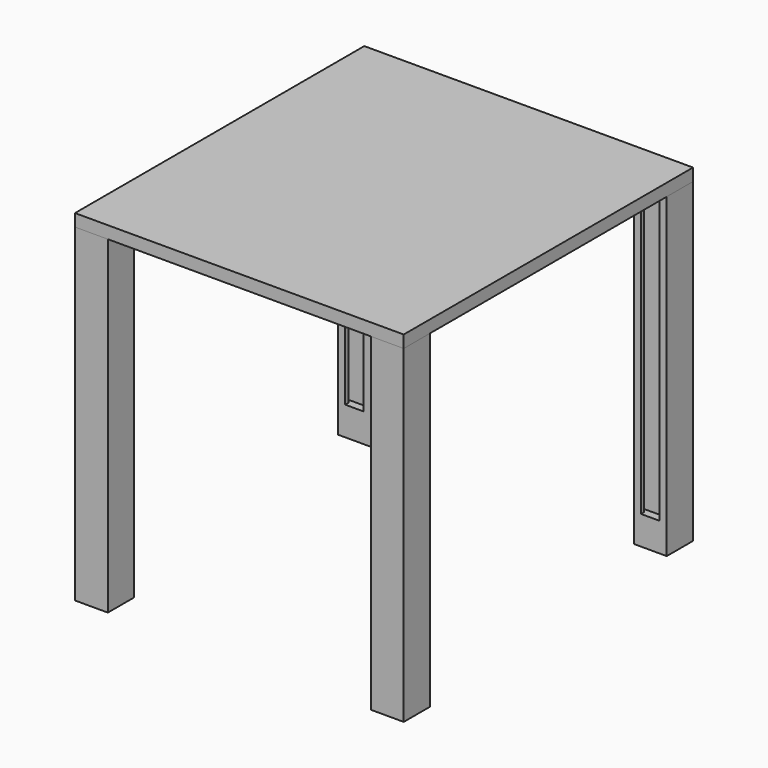
from build123d import *

# Parameters (mm, degrees)
F0_W      = 50.8
F0_H      = 488.95
F1_DEPTH  = 50.8
F3_DEPTH  = 444.5
F5_DEPTH  = 444.5
F6_DEPTH  = 558.8
F8_START  = -19.05
F8_DEPTH  = 508
F9_START  = -19.05
F9_DEPTH  = 425.45
F10_START = -19.05
F10_DEPTH = 425.45


with BuildPart() as f1:
    # F0 (on Front) → F1 (new body)
    with BuildSketch(Plane.XZ):
        with Locations((-215.7162436903, 123.7191561818)):
            Rectangle(F0_W, F0_H)
    extrude(amount=F1_DEPTH)

    # F2 (on face) → F3 (cut)
    with BuildSketch(Plane.XY.offset(368.1941561818)):
        Polygon((-229.9402436903, -44.7851385266), (-229.9402436903, -50.8), (-201.4922436903, -50.8), (-201.4922436903, -44.1170856357), (-194.6342436903, -44.1170856357), (-194.6342436903, -38.3547544479), (-236.7982436903, -38.3547544479), (-236.7982436903, -44.7851385266), align=None)
    extrude(amount=-F3_DEPTH, mode=Mode.SUBTRACT)

    # F7 (on face) → F10 (cut)
    with BuildSketch(Plane.XY.offset(387.2441561818).offset(F10_START)):
        Polygon((255.7077563097, -514.6802), (255.7077563097, -508), (227.2597563097, -508), (227.2597563097, -514.6802), (220.4017563097, -514.6802), (220.4017563097, -520.446), (262.5657563097, -520.446), (262.5657563097, -514.6802), align=None)
    extrude(amount=-F10_DEPTH, mode=Mode.SUBTRACT)


with BuildPart() as f1b:
    # F0 (on Front) → F1, piece 2 (new body)
    with BuildSketch(Plane.XZ):
        with Locations((241.4837563097, 123.7191561818)):
            Rectangle(F0_W, F0_H)
    extrude(amount=F1_DEPTH)

    # F4 (on face) → F5 (cut)
    with BuildSketch(Plane.XY.offset(368.1941561818)):
        Polygon((227.2597563097, -44.7851385266), (227.2597563097, -50.8), (255.7077563097, -50.8), (255.7077563097, -44.1170856357), (262.5657563097, -44.1170856357), (262.5657563097, -38.3547544479), (220.4017563097, -38.3547544479), (220.4017563097, -44.7851385266), align=None)
    extrude(amount=-F5_DEPTH, mode=Mode.SUBTRACT)


with BuildPart() as f6:
    # F0 (on Front) → F6 (new body)
    with BuildSketch(Plane.XZ):
        Polygon((266.8837563097, 387.2441561818), (-241.1162436903, 387.2441561818), (-241.1162436903, 368.1941561818), (-190.3162436903, 368.1941561818), (216.0837563097, 368.1941561818), (266.8837563097, 368.1941561818), align=None)
    extrude(amount=F6_DEPTH)


with BuildPart() as f8:
    # F7 (on face) → F8 (new body)
    with BuildSketch(Plane.XY.offset(387.2441561818).offset(F8_START)):
        Polygon((216.0837563097, -508), (216.0837563097, -558.8), (266.8837563097, -558.8), (266.8837563097, -508), (255.7077563097, -508), (255.7077563097, -514.6802), (262.5657563097, -514.6802), (262.5657563097, -520.446), (220.4017563097, -520.446), (220.4017563097, -514.6802), (227.2597563097, -514.6802), (227.2597563097, -508), align=None)
        Polygon((255.7077563097, -514.6802), (255.7077563097, -508), (227.2597563097, -508), (227.2597563097, -514.6802), (220.4017563097, -514.6802), (220.4017563097, -520.446), (262.5657563097, -520.446), (262.5657563097, -514.6802), align=None)
    extrude(amount=-F8_DEPTH)


with BuildPart() as f8b:
    # F7 (on face) → F8, piece 2 (new body)
    with BuildSketch(Plane.XY.offset(387.2441561818).offset(F8_START)):
        Polygon((-229.9402436903, -508), (-241.1162436903, -508), (-241.1162436903, -558.8), (-190.3162436903, -558.8), (-190.3162436903, -508), (-201.4922436903, -508), (-201.4922436903, -514.6802), (-194.6342436903, -514.6802), (-194.6342436903, -520.446), (-236.7982436903, -520.446), (-236.7982436903, -514.6802), (-229.9402436903, -514.6802), align=None)
        Polygon((-201.4922436903, -508), (-229.9402436903, -508), (-229.9402436903, -514.6802), (-236.7982436903, -514.6802), (-236.7982436903, -520.446), (-194.6342436903, -520.446), (-194.6342436903, -514.6802), (-201.4922436903, -514.6802), align=None)
    extrude(amount=-F8_DEPTH)


with BuildPart() as f9_tool:
    # F7 (on face) → F9 (new body)
    with BuildSketch(Plane.XY.offset(387.2441561818).offset(F9_START)):
        Polygon((-201.4922436903, -508), (-229.9402436903, -508), (-229.9402436903, -514.6802), (-236.7982436903, -514.6802), (-236.7982436903, -520.446), (-194.6342436903, -520.446), (-194.6342436903, -514.6802), (-201.4922436903, -514.6802), align=None)
        Polygon((255.7077563097, -514.6802), (255.7077563097, -508), (227.2597563097, -508), (227.2597563097, -514.6802), (220.4017563097, -514.6802), (220.4017563097, -520.446), (262.5657563097, -520.446), (262.5657563097, -514.6802), align=None)
    extrude(amount=-F9_DEPTH)


with BuildPart() as f8_1:
    add(f8.part)

    # F9: cut by f9_tool
    add(f9_tool.part, mode=Mode.SUBTRACT)


with BuildPart() as f8b_1:
    add(f8b.part)

    # F9: cut by f9_tool
    add(f9_tool.part, mode=Mode.SUBTRACT)


solid = Compound([f1.part, f1b.part, f6.part, f8_1.part, f8b_1.part])
